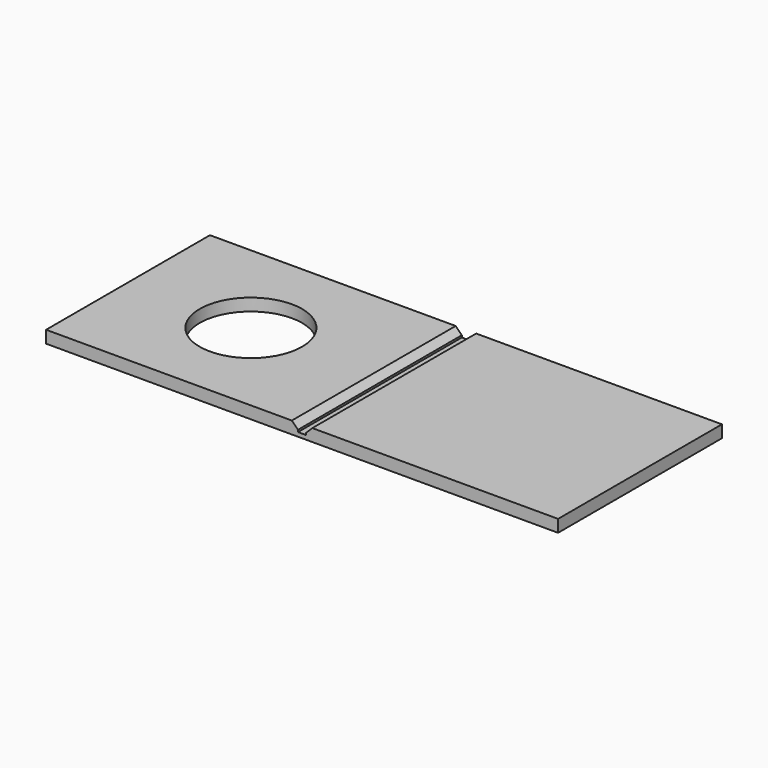
from build123d import *

# Parameters (mm, degrees)
F0_W     = 50
F0_H     = 20
F1_DEPTH = 0.4
F2_W     = 24.6
F2_H     = 20
F3_DEPTH = 0.8
F4_R     = 5
F5_DEPTH = 25
F6_SIZE  = 0.6


with BuildPart() as f1:
    # F0 (on Top) → F1 (new body)
    with BuildSketch(Plane.XY):
        Rectangle(F0_W, F0_H)
    extrude(amount=F1_DEPTH)

    # F2 (on face) → F3 (join)
    with BuildSketch(Plane.XY.offset(0.4)):
        with Locations((-12.7, 0)):
            Rectangle(F2_W, F2_H)
        with Locations((12.7, 0)):
            Rectangle(F2_W, F2_H)
    extrude(amount=F3_DEPTH)

    # F4 (on face) → F5 (cut)
    with BuildSketch(Plane.XY.offset(1.2)):
        with Locations((-13, 0)):
            Circle(F4_R)
    extrude(amount=-F5_DEPTH, mode=Mode.SUBTRACT)

    # F6
    f6_edges = [f1.edges().sort_by_distance(p)[0] for p in [
        (-0.4, 0, 1.2),
        (0.4, 0, 1.2),
    ]]
    chamfer(f6_edges, length=F6_SIZE)


solid = f1.part
